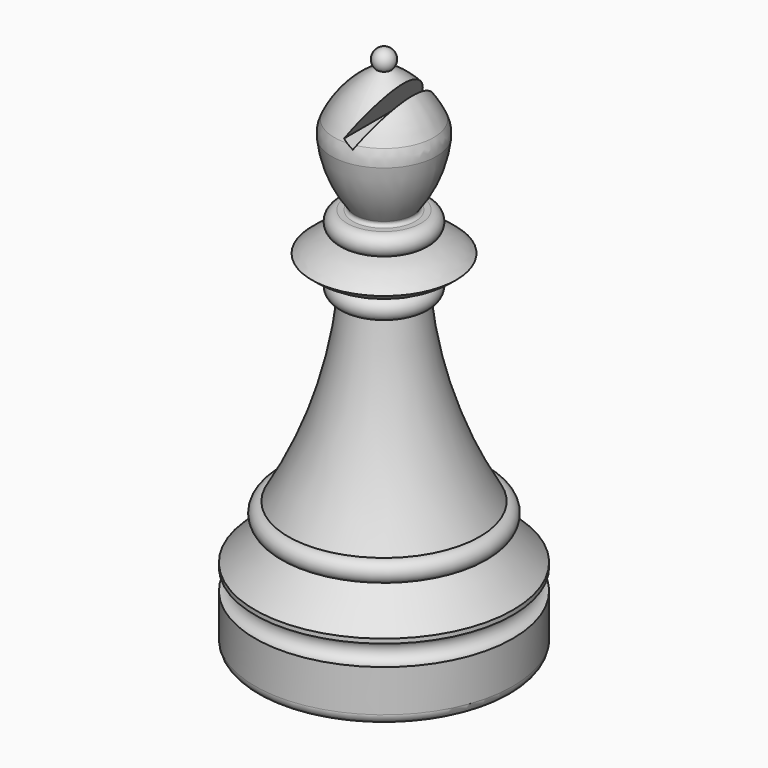
from build123d import *

# Parameters (mm, degrees)
F2_R          = 1.778
F5_R          = 5.08
F6_R          = 0.508
F8_W          = 2.032
F8_H          = 25.4
F9_DEPTH      = 2.54
F9_DEPTH_BACK = 6.858
F10_SCALE     = 0.87


with BuildPart() as f1:
    # F0 (on Front) → F1 (revolve)
    with BuildSketch(Plane.XZ):
        with BuildLine():
            Line((16.51, 0), (0, 0))
            Line((0, 0), (0, -19.05))
            Line((0, -19.05), (22.225, -19.05))
            Line((22.225, -19.05), (22.225, -10.033))
            ThreePointArc((22.225, -10.033), (20.447, -8.255), (22.225, -6.477))
            Line((22.225, -6.477), (22.225, -5.715))
            Line((22.225, -5.715), (16.51, 0))
        make_face()
    revolve(axis=Axis((0, 0, -9.525), (0, 0, 1)))

    # F2
    f2_edges = [f1.edges().sort_by_distance(p)[0] for p in [
        (-22.225, 0, -19.05),
    ]]
    fillet(f2_edges, radius=F2_R)

    # F3 (on Front) → F4 (revolve)
    with BuildSketch(Plane.XZ):
        with BuildLine():
            ThreePointArc((1.27, 69.3676592107), (1.6391647146, 71.3007837384), (0, 72.39))
            Line((0, 72.39), (0, 0))
            Line((0, 0), (16.51, 0))
            ThreePointArc((16.51, 0), (18.288, 1.778), (16.51, 3.556))
            ThreePointArc((16.51, 3.556), (9.7501734489, 18.5125224764), (6.35, 34.5696592107))
            ThreePointArc((6.35, 34.5696592107), (8.128, 36.3476592107), (6.35, 38.1256592107))
            ThreePointArc((6.35, 38.1256592107), (9.6062852188, 39.2330887731), (12.446, 41.1736592107))
            ThreePointArc((12.446, 41.1736592107), (9.6062852188, 43.1142296483), (6.35, 44.2216592107))
            ThreePointArc((6.35, 44.2216592107), (8.128, 45.9996592107), (6.35, 47.7776592107))
            Line((6.35, 47.7776592107), (4.318, 47.7776592107))
            ThreePointArc((4.318, 47.7776592107), (7.7821876852, 53.5930558225), (9.144, 60.2236592107))
            ThreePointArc((9.144, 60.2236592107), (6.0064546496, 65.4840784923), (1.27, 69.3676592107))
        make_face()
    revolve(axis=Axis((0, 0, 36.195), (0, 0, -1)))

    # F5
    f5_edges = [f1.edges().sort_by_distance(p)[0] for p in [
        (-9.144, 0, 60.223659),
    ]]
    fillet(f5_edges, radius=F5_R)

    # F6
    f6_edges = [f1.edges().sort_by_distance(p)[0] for p in [
        (-4.318, 0, 47.777659),
    ]]
    fillet(f6_edges, radius=F6_R)

    # F8 (on line) → F9 (cut, two sides)
    with BuildSketch(Plane(origin=(30.2009668014, 0, 52.3096089378), x_dir=(0.8660254038, 0, -0.5), z_dir=(-0.5, 0, -0.8660254038))) as f9_sk:
        with Locations((-30.1118296053, 0)):
            Rectangle(F8_W, F8_H)
    extrude(amount=-F9_DEPTH, mode=Mode.SUBTRACT)
    extrude(f9_sk.sketch, amount=F9_DEPTH_BACK, mode=Mode.SUBTRACT)


with BuildPart() as f1_1:
    # F10: moved
    add(f1.part.scale(F10_SCALE))


solid = f1_1.part
